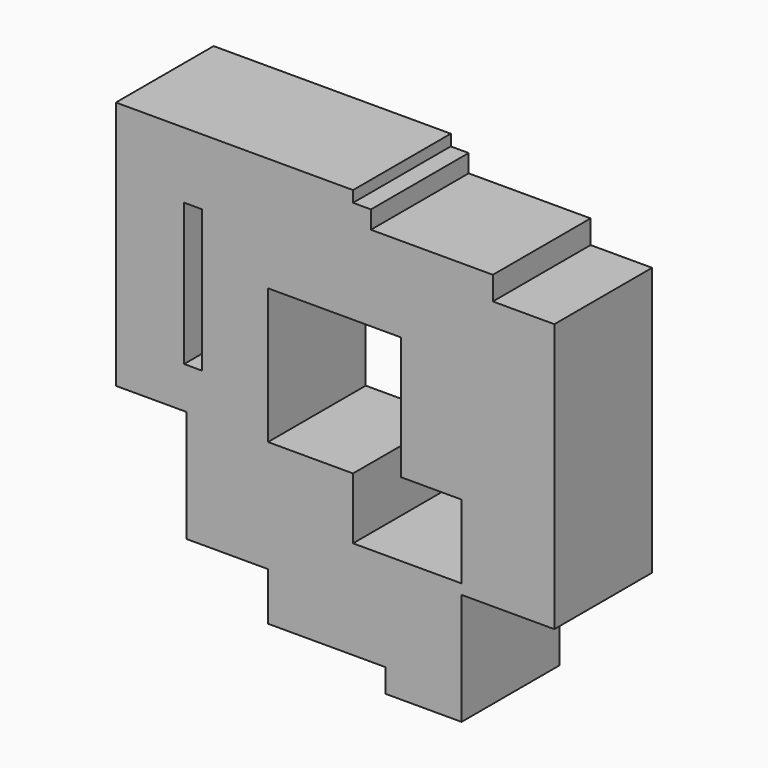
from build123d import *

# Parameters (mm, degrees)
F0_W     = 3.7213962059
F0_H     = 17.6766254008
F0_H_2   = 3.7213973701
F0_W_2   = 3.2562217675
F0_H_3   = 20.467672497
F0_W_3   = 3.9539821446
F0_H_4   = 23.2587195933
F0_W_4   = 16.9788654894
F0_W_5   = 5.3495056927
F0_H_5   = 2.0932843909
F0_W_6   = 0.4651769996
F0_H_6   = 8.6057269946
F0_W_7   = 14.1878202558
F0_H_7   = 29.5385746285
F1_DEPTH = 25.4


with BuildPart() as f1:
    # F0 (on Front) → F1 (new body)
    with BuildSketch(Plane.XZ):
        Polygon((0, -12.7922967076), (0, 0), (-5.8146808296, 0), (-9.3034878373, 0), (-13.7226451188, 0), (-13.7226451188, -23.2587195933), (-17.6766272634, -23.2587195933), (-17.6766272634, -33.2599692047), (6.7450278439, -33.2599692047), (6.7450278439, -12.7922967076), align=None)
        Polygon((-13.7226451188, 28.1430520117), (0, 28.1430520117), (0, 45.8196774125), (0, 49.5410747826), (-35.1206697524, 49.5410747826), (-35.1206697524, 38.1443016231), (-31.3992723823, 38.1443016231), (-31.3992723823, 35.3532582521), (-13.7226451188, 35.3532582521), align=None)
        with Locations((1.860698103, 36.9813647121)):
            Rectangle(F0_W, F0_H)
        with Locations((1.860698103, 47.6803760976)):
            Rectangle(F0_W, F0_H_2)
        Polygon((-17.6766272634, 28.1430520117), (-13.7226451188, 28.1430520117), (-13.7226451188, 35.3532582521), (-31.3992723823, 35.3532582521), (-31.3992723823, 8.6057269946), (-34.6554927528, 8.6057269946), (-34.6554927528, 0), (-17.6766272634, 0), align=None)
        Polygon((3.7213962059, 45.8196774125), (3.7213962059, 28.1430520117), (10.0012496114, 28.1430520117), (10.0012496114, 2.558459295), (17.2114521265, 2.558459295), (17.2114521265, 40.9353487194), (29.0734022856, 40.9353487194), (29.0734022856, 45.8196774125), align=None)
        with Locations((8.3731387276, -23.0261329561)):
            Rectangle(F0_W_2, F0_H_3)
        with Locations((-15.6996361911, -11.6293597966)):
            Rectangle(F0_W_3, F0_H_4)
        Polygon((-35.1206697524, 49.5410747826), (0, 49.5410747826), (0, 51.8669486046), (-49.3084900081, 51.8669486046), (-49.3084900081, 38.1443016231), (-35.1206697524, 38.1443016231), align=None)
        Polygon((17.2114521265, -12.7922967076), (10.0012496114, -12.7922967076), (10.0012496114, -33.2599692047), (6.7450278439, -33.2599692047), (6.7450278439, -38.1443016231), (22.5609578192, -38.1443016231), (22.5609578192, -14.8855810985), (17.2114521265, -14.8855810985), align=None)
        with Locations((-26.1660600081, -11.6293597966)):
            Rectangle(F0_W_4, F0_H_4)
        with Locations((19.8862049729, -13.8389389031)):
            Rectangle(F0_W_5, F0_H_5)
        with Locations((-34.8880812526, 4.3028634973)):
            Rectangle(F0_W_6, F0_H_6)
        with Locations((-42.2145798802, 23.3750143088)):
            Rectangle(F0_W_7, F0_H_7)
        Polygon((41.8656989932, 40.9353487194), (29.0734022856, 40.9353487194), (29.0734022856, -12.7922967076), (22.5609578192, -12.7922967076), (22.5609578192, -14.8855810985), (41.8656989932, -14.8855810985), align=None)
        Polygon((29.0734022856, -12.7922967076), (29.0734022856, 40.9353487194), (17.2114521265, 40.9353487194), (17.2114521265, 2.558459295), (22.5609578192, 2.558459295), (22.5609578192, -12.7922967076), align=None)
        with Locations((-42.2145798802, 4.3028634973)):
            Rectangle(F0_W_7, F0_H_6)
    extrude(amount=F1_DEPTH)


solid = f1.part
